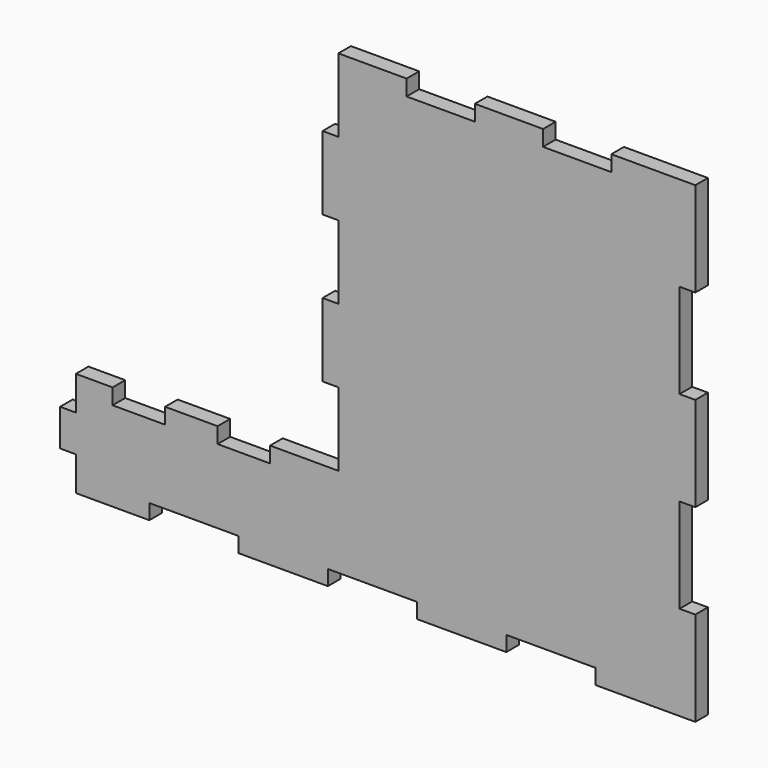
from build123d import *

# Parameters (mm, degrees)
F1_DEPTH = 3


with BuildPart() as f1:
    # F0 (on Front) → F1 (new body)
    with BuildSketch(Plane.XZ):
        Polygon((16, 56), (3, 56), (3, 42), (0, 42), (0, 28), (3, 28), (3, 14), (0, 14), (0, 0), (3, 0), (3, -14), (0, -14), (-10, -14), (-10, -17), (-20, -17), (-20, -14), (-30, -14), (-30, -17), (-40, -17), (-40, -14), (-47, -14), (-47, -20.5), (-50, -20.5), (-50, -27.5), (-47, -27.5), (-47, -34), (-33, -34), (-33, -31.112283), (-16, -31.112283), (-16, -34), (1, -34), (1, -31.112283), (18, -31.112283), (18, -34), (35, -34), (35, -31.112283), (52, -31.112283), (52, -34), (71, -34), (71, -16), (68, -16), (68, 2), (71, 2), (71, 20), (68, 20), (68, 38), (71, 38), (71, 56), (55, 56), (55, 53), (42, 53), (42, 56), (29, 56), (29, 53), (16, 53), align=None)
    extrude(amount=F1_DEPTH)


solid = f1.part
